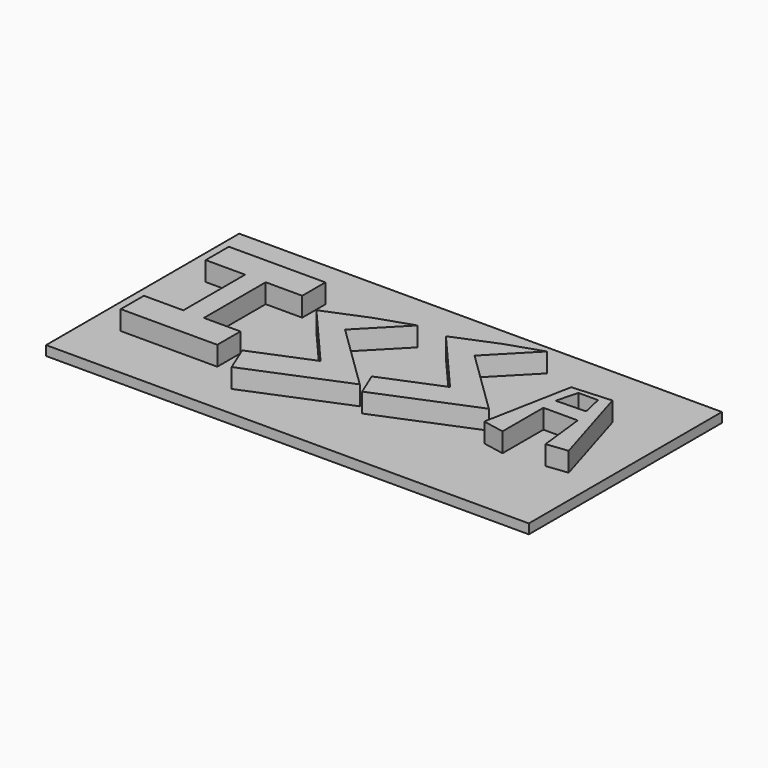
from build123d import *

# Parameters (mm, degrees)
F0_W     = 2.705607
F0_H     = 10.16
F1_DEPTH = 3.81
F2_W     = 63.5
F2_H     = 31.75
F3_DEPTH = 1.27


with BuildPart() as f1:
    # F0 (on Top) → F1 (new body)
    with BuildSketch(Plane.XY):
        Polygon((-20.835026, 10.16), (-15.649381, 10.16), (-12.943774, 10.16), (-8.135026, 10.16), (-8.135026, 13.97), (-20.835026, 13.97), align=None)
        with Locations((-14.296577, 5.08)):
            Rectangle(F0_W, F0_H)
        Polygon((-12.943774, 0), (-15.649381, 0), (-20.835026, 0), (-20.835026, -3.81), (-8.135026, -3.81), (-8.135026, 0), align=None)
        Polygon((5.223219, 12.387373), (0.627128, 10.861921), (-4.988946, 8.556758), (2.39897, 0), (-5.356256, -3.183195), (-3.892129, -6.75025), (8.793328, -1.543402), (0, 7.030444), align=None)
        Polygon((19.226712, 16.176651), (14.630621, 14.651199), (9.014547, 12.346036), (16.402463, 3.789278), (8.647237, 0.606083), (9.982238, -2.646384), (22.53151, 2.504566), (14.003493, 10.819722), align=None)
        Polygon((31.291671, 11.87978), (26.147099, 11.52967), (23.939183, 0), (26.769016, -0.541909), (26.769016, 6.178938), (31.28387, 6.178938), (31.994306, 0), (34.784245, 0.320779), align=None)
        Polygon((30.696951, 8.292786), (26.769016, 8.189108), (27.517159, 11.005629), (30.09356, 11.005629), align=None, mode=Mode.SUBTRACT)
    extrude(amount=F1_DEPTH)


with BuildPart() as f3:
    # F2 (on Top) → F3 (new body)
    with BuildSketch(Plane.XY):
        with Locations((6.87552, 4.839138)):
            Rectangle(F2_W, F2_H)
    extrude(amount=F3_DEPTH)


solid = Compound([f1.part, f3.part])
